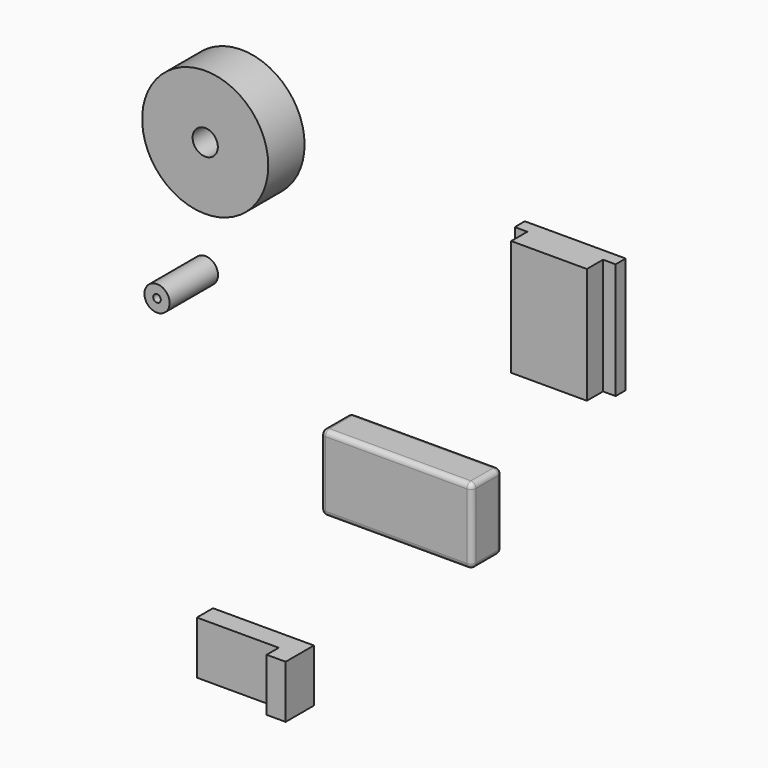
from build123d import *

# Parameters (mm, degrees)
F0_R      = 25
F0_R_2    = 5
F1_DEPTH  = 18
F2_R      = 5
F2_R_2    = 1.5
F3_DEPTH  = 24
F4_W      = 60
F4_H      = 30
F5_DEPTH  = 15
F6_R      = 2
F7_W      = 40
F7_H      = 21
F8_DEPTH  = 8
F9_W      = 7.540168
F9_H      = 21
F10_DEPTH = 6
F12_DEPTH = 46


with BuildPart() as f1:
    # F0 (on Front) → F1 (new body)
    with BuildSketch(Plane.XZ):
        with Locations((-49.920149, 51.661547)):
            Circle(F0_R)
        with Locations((-49.920149, 51.661547)):
            Circle(F0_R_2, mode=Mode.SUBTRACT)
    extrude(amount=F1_DEPTH)


with BuildPart() as f3:
    # F2 (on Front) → F3 (new body)
    with BuildSketch(Plane.XZ):
        with Locations((-64.238332, -5.030713)):
            Circle(F2_R)
        with Locations((-64.238332, -5.030713)):
            Circle(F2_R_2, mode=Mode.SUBTRACT)
    extrude(amount=F3_DEPTH)


with BuildPart() as f5:
    # F4 (on Front) → F5 (new body)
    with BuildSketch(Plane.XZ):
        with Locations((23.427234, -50.583077)):
            Rectangle(F4_W, F4_H)
    extrude(amount=F5_DEPTH)

    # F6
    f6_edges = [f5.edges().sort_by_distance(p)[0] for p in [
        (-6.572766, -15, -50.583077),
        (23.427234, -15, -65.583077),
        (53.427234, -15, -50.583077),
        (23.427234, -15, -35.583077),
        (-6.572766, 0, -50.583077),
        (23.427234, 0, -65.583077),
        (53.427234, 0, -50.583077),
        (23.427234, 0, -35.583077),
        (-6.572766, -7.5, -65.583077),
        (53.427234, -7.5, -65.583077),
        (53.427234, -7.5, -35.583077),
        (-6.572766, -7.5, -35.583077),
    ]]
    fillet(f6_edges, radius=F6_R)


with BuildPart() as f8:
    # F7 (on Front) → F8 (new body)
    with BuildSketch(Plane.XZ):
        with Locations((-41.229068, -132.46946)):
            Rectangle(F7_W, F7_H)
    extrude(amount=F8_DEPTH)

    # F9 (on face) → F10 (join)
    with BuildSketch(Plane.XZ.offset(8)):
        with Locations((-24.999152, -132.46946)):
            Rectangle(F9_W, F9_H)
    extrude(amount=F10_DEPTH)


with BuildPart() as f12:
    # F11 (on Top) → F12 (new body)
    with BuildSketch(Plane.XY):
        Polygon((93.64194, 10.973271), (53.64194, 10.973271), (53.64194, 5.973271), (58.64194, 5.973271), (58.64194, -2.026729), (88.64194, -2.026729), (88.64194, 5.973271), (93.64194, 5.973271), align=None)
    extrude(amount=F12_DEPTH)


solid = Compound([f1.part, f3.part, f5.part, f8.part, f12.part])
